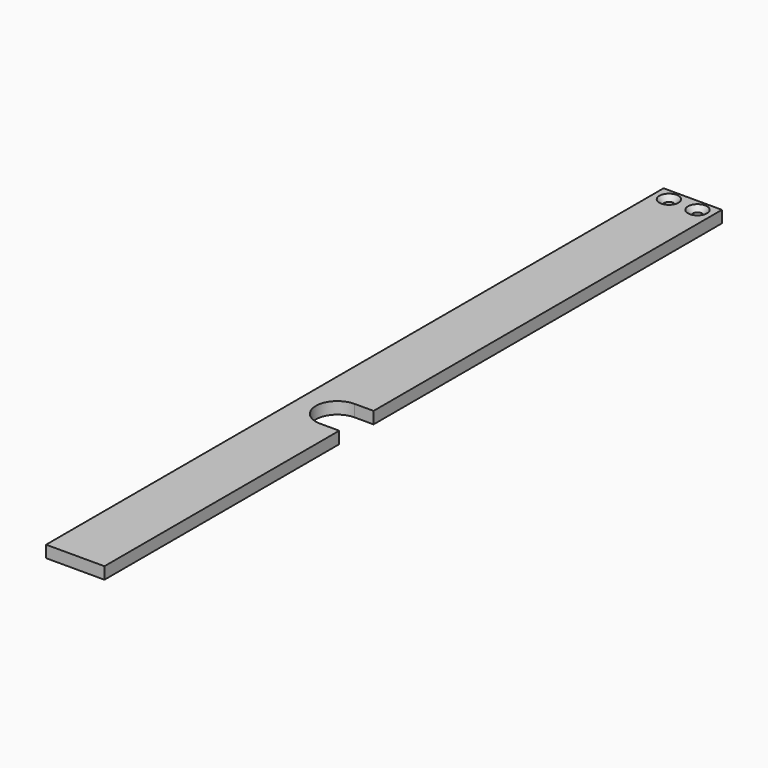
from build123d import *

# Parameters (mm, degrees)
PAD025_DEPTH    = 5
SKETCH057_R     = 2
POCKET035_DEPTH = 5.001
CHAMFER019_SIZE = 2


with BuildPart() as part:
    # Sketch051 → Pad025 (new body)
    with BuildSketch(Plane.XY):
        with BuildLine():
            Line((-171.323184, 15.404903), (-171.323184, -107.8))
            Line((-171.323184, -107.8), (-195.823184, -107.8))
            Line((-195.823184, -107.8), (-195.823184, 216.2))
            Line((-195.823184, 216.2), (-171.323184, 216.2))
            Line((-171.323184, 216.2), (-171.323184, 33.404903))
            Line((-179.323184, 33.404903), (-171.323184, 33.404903))
            ThreePointArc((-179.323184, 33.404903), (-188.323184, 24.404903), (-179.323184, 15.404903))
            Line((-179.323184, 15.404903), (-171.323184, 15.404903))
        make_face()
    extrude(amount=PAD025_DEPTH)

    # Sketch057 (on Face10 of Pad025) → Pocket035 (cut, through all)
    with BuildSketch(Plane.XY.offset(5)):
        with Locations((-189.573184, 211.2)):
            Circle(SKETCH057_R)
        with Locations((-177.573184, 211.2)):
            Circle(SKETCH057_R)
    extrude(amount=-POCKET035_DEPTH, mode=Mode.SUBTRACT)

    # Chamfer019
    chamfer019_edges = [part.edges().sort_by_distance(p)[0] for p in [
        (-191.573184, 211.2, 5),
        (-179.573184, 211.2, 5),
    ]]
    chamfer(chamfer019_edges, length=CHAMFER019_SIZE)


with BuildPart() as part_1:
    # Body018 placement: moved
    add(part.part.moved(Location((0, 0, 15.5))))


with BuildPart() as part_2:
    # Clone007 placement: moved
    add(part_1.part.moved(Location((195.823184, 107.8, -20.5))))


solid = part_2.part
